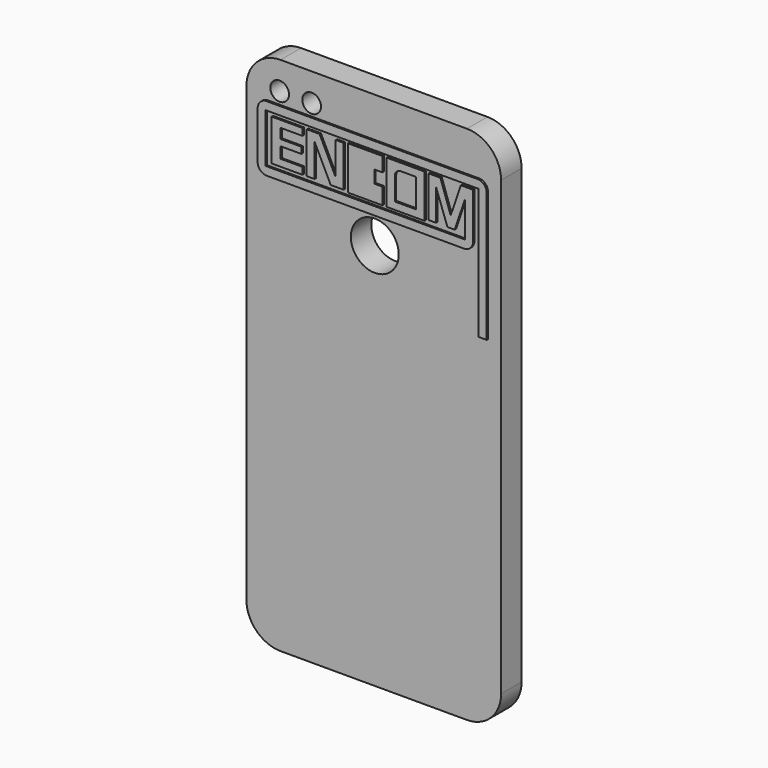
from build123d import *

# Parameters (mm, degrees)
F0_R     = 2.77982
F0_R_2   = 7.118321
F0_W     = 68.371698
F0_H     = 20.227566
F2_DEPTH = 7.62
F1_W     = 11.292279
F1_H     = 12.891882
F3_DEPTH = 0.508


with BuildPart() as f2:
    # F0 (on Front) → F2 (new body)
    with BuildSketch(Plane.XZ):
        with BuildLine():
            Line((256.633898, 129.600368), (201.261898, 129.600368))
            ThreePointArc((201.261898, 129.600368), (194.077693, 126.624573), (191.101898, 119.440368))
            Line((191.101898, 119.440368), (191.101898, -14.925632))
            ThreePointArc((191.101898, -14.925632), (194.077693, -22.109837), (201.261898, -25.085632))
            Line((201.261898, -25.085632), (256.633898, -25.085632))
            ThreePointArc((256.633898, -25.085632), (263.818103, -22.109837), (266.793898, -14.925632))
            Line((266.793898, -14.925632), (266.793898, 119.440368))
            ThreePointArc((266.793898, 119.440368), (263.818103, 126.624573), (256.633898, 129.600368))
        make_face()
        with Locations((200.982004, 121.33383)):
            Circle(F0_R, mode=Mode.SUBTRACT)
        with Locations((210.491642, 121.281251)):
            Circle(F0_R, mode=Mode.SUBTRACT)
        with Locations((229.258642, 90.09257)):
            Circle(F0_R_2, mode=Mode.SUBTRACT)
        with Locations((229.013391, 107.724607)):
            Rectangle(F0_W, F0_H, mode=Mode.SUBTRACT)
        with Locations((229.013391, 107.724607)):
            Rectangle(F0_W, F0_H)
    extrude(amount=-F2_DEPTH)


with BuildPart() as f3:
    # F1 (on Front) → F3 (new body)
    with BuildSketch(Plane.XZ):
        with BuildLine():
            Line((201.617226, 114.230096), (199.056099, 114.230096))
            ThreePointArc((199.056099, 114.230096), (199.002218, 114.207778), (198.979899, 114.153896))
            Line((198.979899, 114.153896), (198.979899, 102.062102))
            ThreePointArc((198.979899, 102.062102), (199.002218, 102.00822), (199.056099, 101.985902))
            Line((199.056099, 101.985902), (201.617226, 101.985902))
            Line((201.617226, 101.985902), (201.617226, 104.052089))
            Line((201.617226, 104.052089), (201.617226, 107.341483))
            Line((201.617226, 107.341483), (201.617226, 109.224506))
            Line((201.617226, 109.224506), (201.617226, 112.163909))
            Line((201.617226, 112.163909), (201.617226, 114.230096))
        make_face()
        with BuildLine():
            Line((208.113134, 114.230096), (201.617226, 114.230096))
            Line((201.617226, 114.230096), (201.617226, 112.163909))
            Line((201.617226, 112.163909), (208.113134, 112.163909))
            ThreePointArc((208.113134, 112.163909), (208.167015, 112.186227), (208.189334, 112.240109))
            Line((208.189334, 112.240109), (208.189334, 114.153896))
            ThreePointArc((208.189334, 114.153896), (208.167015, 114.207778), (208.113134, 114.230096))
        make_face()
        with BuildLine():
            Line((207.837288, 109.224506), (201.617226, 109.224506))
            Line((201.617226, 109.224506), (201.617226, 107.341483))
            Line((201.617226, 107.341483), (207.837288, 107.341483))
            ThreePointArc((207.837288, 107.341483), (207.89117, 107.363802), (207.913488, 107.417683))
            Line((207.913488, 107.417683), (207.913488, 109.148306))
            ThreePointArc((207.913488, 109.148306), (207.89117, 109.202187), (207.837288, 109.224506))
        make_face()
        with BuildLine():
            Line((201.617226, 104.052089), (201.617226, 101.985902))
            Line((201.617226, 101.985902), (208.133642, 101.985902))
            ThreePointArc((208.133642, 101.985902), (208.187524, 102.00822), (208.209842, 102.062102))
            Line((208.209842, 102.062102), (208.209842, 103.975889))
            ThreePointArc((208.209842, 103.975889), (208.187524, 104.029771), (208.133642, 104.052089))
            Line((208.133642, 104.052089), (201.617226, 104.052089))
        make_face()
        with BuildLine():
            Line((211.79907, 114.314042), (209.517638, 114.314042))
            ThreePointArc((209.517638, 114.314042), (209.463757, 114.291724), (209.441438, 114.237842))
            Line((209.441438, 114.237842), (209.441438, 102.12152))
            ThreePointArc((209.441438, 102.12152), (209.463757, 102.067638), (209.517638, 102.04532))
            Line((209.517638, 102.04532), (211.72287, 102.04532))
            ThreePointArc((211.72287, 102.04532), (211.776752, 102.067638), (211.79907, 102.12152))
            Line((211.79907, 102.12152), (211.79907, 111.772515))
            Line((211.79907, 111.772515), (211.79907, 114.314042))
        make_face()
        with BuildLine():
            Line((213.204763, 114.314042), (211.79907, 114.314042))
            Line((211.79907, 114.314042), (211.79907, 111.772515))
            Line((211.79907, 111.772515), (216.544224, 102.087992))
            ThreePointArc((216.544224, 102.087992), (216.57233, 102.056862), (216.612651, 102.04532))
            Line((216.612651, 102.04532), (218.04741, 102.04532))
            Line((218.04741, 102.04532), (218.04741, 104.527526))
            Line((218.04741, 104.527526), (213.281348, 114.254721))
            Line((213.281348, 114.254721), (213.273191, 114.27137))
            ThreePointArc((213.273191, 114.27137), (213.245085, 114.3025), (213.204763, 114.314042))
        make_face()
        with BuildLine():
            Line((218.04741, 104.527526), (218.04741, 102.04532))
            Line((218.04741, 102.04532), (220.328842, 102.04532))
            ThreePointArc((220.328842, 102.04532), (220.382724, 102.067638), (220.405042, 102.12152))
            Line((220.405042, 102.12152), (220.405042, 114.237842))
            ThreePointArc((220.405042, 114.237842), (220.382724, 114.291724), (220.328842, 114.314042))
            Line((220.328842, 114.314042), (218.12361, 114.314042))
            ThreePointArc((218.12361, 114.314042), (218.069729, 114.291724), (218.04741, 114.237842))
            Line((218.04741, 114.237842), (218.04741, 104.527526))
        make_face()
        Polygon((231.943071, 114.619859), (221.637994, 114.619859), (221.637994, 101.727977), (231.943071, 101.727977), (231.943071, 106.598198), (229.517043, 106.598198), (229.517043, 110.34707), (231.943071, 110.34707), align=None)
        with Locations((238.764972, 108.173918)):
            Rectangle(F1_W, F1_H)
        with BuildLine():
            ThreePointArc((235.624984, 110.643006), (236.146922, 111.903076), (237.406992, 112.425014))
            Line((237.406992, 112.425014), (241.897196, 112.425014))
            Line((241.897196, 112.425014), (241.897196, 103.917606))
            Line((241.897196, 103.917606), (235.624984, 103.917606))
            Line((235.624984, 103.917606), (235.624984, 110.643006))
        make_face(mode=Mode.SUBTRACT)
        Polygon((247.867972, 102.335535), (247.867972, 111.743048), (247.867972, 114.539206), (245.686665, 114.539206), (245.686665, 102.335535), align=None)
        Polygon((256.510377, 111.432262), (256.510377, 114.548117), (255.23454, 114.539206), (252.212584, 105.671428), (249.157995, 114.539206), (247.867972, 114.539206), (247.867972, 111.743048), (251.249611, 102.335535), (253.4104, 102.335535), align=None)
        with BuildLine():
            Line((258.874923, 117.78339), (197.545778, 117.78339))
            ThreePointArc((197.545778, 117.78339), (195.648846, 116.997655), (194.863111, 115.100722))
            Line((194.863111, 115.100722), (194.863111, 100.976523))
            ThreePointArc((194.863111, 100.976523), (195.648846, 99.079591), (197.545778, 98.293856))
            Line((197.545778, 98.293856), (256.192256, 98.293856))
            ThreePointArc((256.192256, 98.293856), (258.089188, 99.079591), (258.874923, 100.976523))
            Line((258.874923, 100.976523), (258.874923, 114.548117))
            Line((258.874923, 114.548117), (256.510377, 114.548117))
            Line((256.510377, 114.548117), (256.510377, 111.432262))
            Line((256.510377, 111.432262), (256.510377, 100.745179))
            Line((256.510377, 100.745179), (197.24299, 100.745179))
            Line((197.24299, 100.745179), (197.24299, 115.341797))
            Line((197.24299, 115.341797), (256.510377, 115.341797))
            Line((256.510377, 115.341797), (258.874923, 115.341797))
            Line((258.874923, 115.341797), (258.874923, 117.78339))
        make_face()
        with BuildLine():
            Line((260.225059, 117.78339), (258.874923, 117.78339))
            Line((258.874923, 117.78339), (258.874923, 115.341797))
            Line((258.874923, 115.341797), (260.543227, 115.341797))
            Line((260.543227, 115.341797), (260.543227, 114.548117))
            Line((260.543227, 114.548117), (260.543227, 99.643797))
            Line((260.543227, 99.643797), (262.911439, 99.643797))
            Line((262.911439, 99.643797), (262.911439, 115.09701))
            ThreePointArc((262.911439, 115.09701), (262.124616, 116.996567), (260.225059, 117.78339))
        make_face()
        Polygon((262.911439, 76.591752), (262.911439, 99.643797), (260.543227, 99.643797), (260.543227, 98.293856), (260.543227, 76.591752), align=None)
    extrude(amount=F3_DEPTH)


solid = Compound([f2.part, f3.part])
